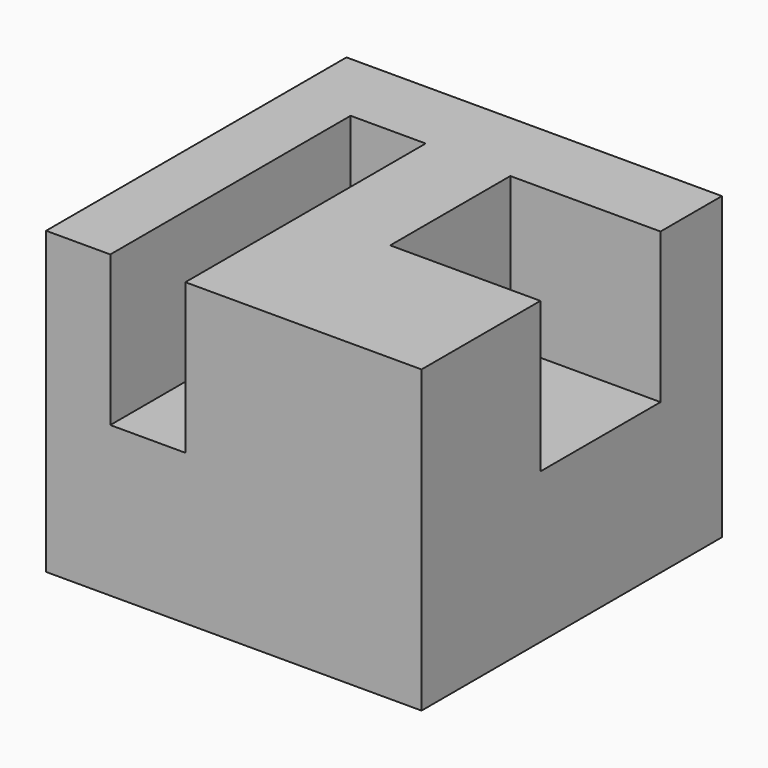
from build123d import *

# Parameters (mm, degrees)
F0_W     = 63.5
F0_H     = 50.8
F1_DEPTH = 63.5
F2_W     = 12.7
F2_H     = 50.8
F3_DEPTH = 25.4
F4_W     = 25.4
F4_H     = 25.4
F5_DEPTH = 25.4


with BuildPart() as f1:
    # F0 (on Front) → F1 (new body)
    with BuildSketch(Plane.XZ):
        with Locations((-12.844933, -19.634643)):
            Rectangle(F0_W, F0_H)
    extrude(amount=F1_DEPTH)

    # F2 (on face) → F3 (cut)
    with BuildSketch(Plane.XY.offset(5.765357)):
        with Locations((-27.387291, -38.1)):
            Rectangle(F2_W, F2_H)
    extrude(amount=-F3_DEPTH, mode=Mode.SUBTRACT)

    # F4 (on face) → F5 (cut)
    with BuildSketch(Plane.YZ.offset(18.905067)):
        with Locations((-25.680038, -6.934643)):
            Rectangle(F4_W, F4_H)
    extrude(amount=-F5_DEPTH, mode=Mode.SUBTRACT)


solid = f1.part
